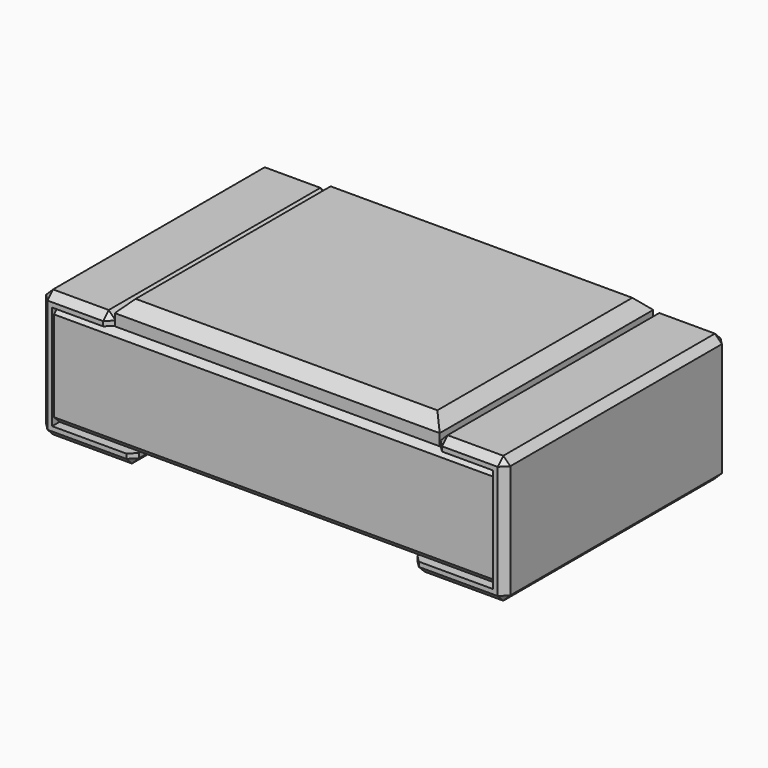
from build123d import *

# Parameters (mm, degrees)
BOX_W                          = 1.9
BOX_H                          = 1.18
BOX_DEPTH                      = 0.45
CHAMFER_SIZE                   = 0.03
EXTRUDE_DEPTH                  = 1.2
EXTRUDE_ONTO_SKETCH_ROLL_ANGLE = 90
CHAMFER001_SIZE                = 0.03
BOX001_W                       = 1.4
BOX001_H                       = 1.15
BOX001_DEPTH                   = 0.1
CHAMFER002_SIZE                = 0.05


with BuildPart() as chamferbody:
    # Box → Box (new body)
    with BuildSketch(Plane(origin=(-0.95, 0.01, 0.05), x_dir=(1, 0, 0), z_dir=(0, 0, 1))):
        with Locations((0.95, 0.59)):
            Rectangle(BOX_W, BOX_H)
    extrude(amount=BOX_DEPTH)

    # Chamfer
    chamfer_edges = [chamferbody.edges().sort_by_distance(p)[0] for p in [
        (0, 0.01, 0.05),
        (0, 0.01, 0.5),
        (0, 1.19, 0.05),
        (0, 1.19, 0.5),
    ]]
    chamfer(chamfer_edges, length=CHAMFER_SIZE)


with BuildPart() as chamferpads:
    # Sketch as drawn → Extrude (new)
    with BuildSketch(Plane.XY):
        Polygon((-0.6, 0), (-1, 0), (-1, 0.55), (-0.7, 0.55), (-0.7, 0.5), (-0.95, 0.5), (-0.95, 0.05), (-0.6, 0.05), align=None)
    extrude(amount=-EXTRUDE_DEPTH)


with BuildPart() as chamferpads_1:
    # Extrude onto Sketch roll: moved
    add(chamferpads.part.rotate(Axis((0, 0, 0), (1, 0, 0)), EXTRUDE_ONTO_SKETCH_ROLL_ANGLE))


with BuildPart() as chamferpads_2:
    # Extrude onto Sketch placement: moved
    add(chamferpads_1.part)

    # Chamfer001
    chamfer001_edges = [chamferpads_2.edges().sort_by_distance(p)[0] for p in [
        (-0.6, 0.6, 0),
        (-1, 0.6, 0),
        (-0.8, 0, 0),
        (-0.8, 1.2, 0),
        (-1, 0.6, 0.55),
        (-1, 0, 0.275),
        (-1, 1.2, 0.275),
        (-0.7, 0.6, 0.55),
        (-0.85, 0, 0.55),
        (-0.85, 1.2, 0.55),
        (-0.7, 0, 0.525),
        (-0.7, 1.2, 0.525),
        (-0.6, 0, 0.025),
        (-0.6, 1.2, 0.025),
    ]]
    chamfer(chamfer001_edges, length=CHAMFER001_SIZE)


with BuildPart() as part_mirroring:
    # Part__Mirroring: instance of ChamferPads
    add(chamferpads_2.part.mirror(Plane(origin=(0, 0, 0), x_dir=(0, -1, 0), z_dir=(1, 0, 0))))


with BuildPart() as fusion:
    # Fusion base: copy of ChamferPads
    add(chamferpads_2.part)

    # Fusion: union Part__Mirroring
    add(part_mirroring.part)


with BuildPart() as fusion001:
    # Box001 → Box001 (new body)
    with BuildSketch(Plane(origin=(-0.7, 0.025, 0.5), x_dir=(1, 0, 0), z_dir=(0, 0, 1))):
        with Locations((0.7, 0.575)):
            Rectangle(BOX001_W, BOX001_H)
    extrude(amount=BOX001_DEPTH)

    # Chamfer002
    chamfer002_edges = [fusion001.edges().sort_by_distance(p)[0] for p in [
        (-0.7, 0.6, 0.6),
        (0.7, 0.6, 0.6),
        (0, 0.025, 0.6),
        (0, 1.175, 0.6),
    ]]
    chamfer(chamfer002_edges, length=CHAMFER002_SIZE)

    # Fusion001: union ChamferBody, Fusion
    add(chamferbody.part)
    add(fusion.part)


with BuildPart() as fusion001_1:
    # Fusion001 placement: moved
    add(fusion001.part.moved(Location((0, -0.6, 0))))


solid = fusion001_1.part
